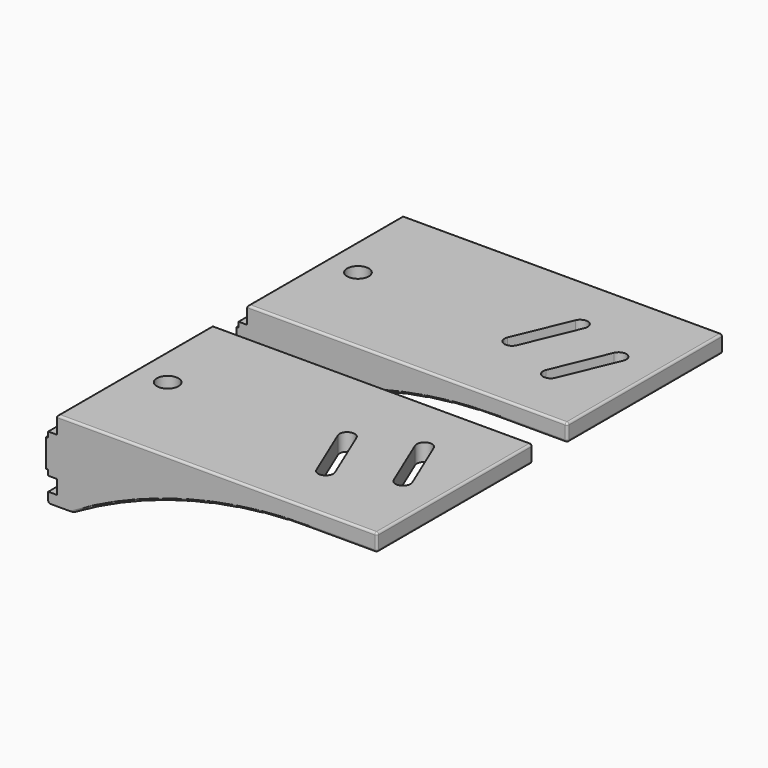
from build123d import *

# Parameters (mm, degrees)
F1_DEPTH      = 22.5
F1_DEPTH_BACK = 22.5
F4_DEPTH      = 22.5
F4_DEPTH_BACK = 22.5
F5_W          = 37
F5_H          = 14.575
F6_DEPTH      = 70.001
F7_R          = 2.5
F8_DEPTH      = 18.576
F9_R          = 6
F10_DEPTH     = 7.5
F11_R         = 2.75
F12_DEPTH     = 76.501
F13_R         = 2.5
F14_DEPTH     = 7.075
F15_R         = 6
F16_DEPTH     = 35
F17_R         = 0.5


with BuildPart() as f1:
    # F0 (on Front) → F1 (new body, two sides)
    with BuildSketch(Plane.XZ) as f1_sk:
        Polygon((-0.5, 3.25), (-0.5, 0), (-0.5, -3.25), (0, -3.25), (0, -4.5), (2, -4.5), (2, -7.75), (0, -7.75), (0, -10.075), (6, -10.075), (6, 0), (6, 8.5), (2, 8.5), (2, 4.5), (0, 4.5), (0, 3.25), align=None)
    extrude(amount=F1_DEPTH)
    extrude(f1_sk.sketch, amount=-F1_DEPTH_BACK)

    # F3 (on Front) → F4 (join, two sides)
    with BuildSketch(Plane.XZ) as f4_sk:
        with BuildLine():
            Line((76, 8.5), (6, 8.5))
            Line((6, 8.5), (6, -10.075))
            ThreePointArc((6, -10.075), (32.550788126, 0.7944315999), (61, 4.5))
            Line((61, 4.5), (76, 4.5))
            Line((76, 4.5), (76, 8.5))
        make_face()
    extrude(amount=F4_DEPTH)
    extrude(f4_sk.sketch, amount=-F4_DEPTH_BACK)

    # F5 (on offset) → F6 (cut, through all)
    with BuildSketch(Plane.YZ.offset(6)):
        with Locations((0, -2.7875)):
            Rectangle(F5_W, F5_H)
    extrude(amount=F6_DEPTH, mode=Mode.SUBTRACT)

    # F7 (on face) → F8 (cut, through all)
    with BuildSketch(Plane.XY.offset(8.5)):
        with Locations((9.6, 0)):
            Circle(F7_R)
        with BuildLine():
            ThreePointArc((63.1673612931, 9.9249359546), (60.8785878281, 10.8664857545), (59.9370380282, 8.5777122894))
            Line((59.9370380282, 8.5777122894), (65.3259326889, -4.3435807703))
            ThreePointArc((65.3259326889, -4.3435807703), (67.614706154, -5.2851305701), (68.5562559539, -2.9963571051))
            Line((68.5562559539, -2.9963571051), (63.1673612931, 9.9249359546))
        make_face()
        with BuildLine():
            ThreePointArc((49.7845934813, 4.3435807703), (47.4958200162, 5.2851305701), (46.5542702163, 2.9963571051))
            Line((46.5542702163, 2.9963571051), (51.9431648771, -9.9249359546))
            ThreePointArc((51.9431648771, -9.9249359546), (54.2319383421, -10.8664857545), (55.173488142, -8.5777122894))
            Line((55.173488142, -8.5777122894), (49.7845934813, 4.3435807703))
        make_face()
    extrude(amount=-F8_DEPTH, mode=Mode.SUBTRACT)

    # F9 (on face) → F10 (cut)
    with BuildSketch(Plane(origin=(0, 0, -10.075), x_dir=(1, 0, 0), z_dir=(0, 0, -1))):
        with Locations((9.6, 0)):
            Circle(F9_R)
    extrude(amount=-F10_DEPTH, mode=Mode.SUBTRACT)

    # F11 (on face) → F12 (cut, through all)
    with BuildSketch(Plane(origin=(-0.5, 0, 0), x_dir=(0, -1, 0), z_dir=(-1, 0, 0))):
        with Locations((-12.5, 0)):
            Circle(F11_R)
        with Locations((12.5, 0)):
            Circle(F11_R)
    extrude(amount=-F12_DEPTH, mode=Mode.SUBTRACT)

    # F13 (on face) → F14 (join, through all)
    with BuildSketch(Plane(origin=(0, 0, -2.575), x_dir=(1, 0, 0), z_dir=(0, 0, -1))):
        with BuildLine():
            ThreePointArc((15.6, 0), (13.8426406871, 4.2426406871), (9.6, 6))
            Line((9.6, 6), (0, 6))
            Line((0, 6), (0, 0))
            Line((0, 0), (0, -6))
            Line((0, -6), (9.6, -6))
            ThreePointArc((9.6, -6), (13.8426406871, -4.2426406871), (15.6, 0))
        make_face()
        with Locations((9.6, 0)):
            Circle(F13_R, mode=Mode.SUBTRACT)
    extrude(amount=-F14_DEPTH)

    # F15 (on face) → F16 (cut)
    with BuildSketch(Plane.YZ.offset(6)):
        with Locations((-12.5, 0)):
            Circle(F15_R)
        with Locations((12.5, 0)):
            Circle(F15_R)
    extrude(amount=F16_DEPTH, mode=Mode.SUBTRACT)

    # F17
    f17_edges = [f1.edges().sort_by_distance(p)[0] for p in [
        (2, 0, 8.5),
        (39, -22.5, 8.5),
        (39, 22.5, 8.5),
        (76, 0, 8.5),
        (32.550788, -22.5, 0.794432),
        (32.550788, 22.5, 0.794432),
        (0, 0, -10.075),
        (76, 22.5, 6.5),
        (76, -22.5, 6.5),
        (76, 0, 4.5),
        (23.5, -16.468627, 4.5),
        (23.5, -8.531373, 4.5),
        (23.5, 8.531373, 4.5),
        (23.5, 16.468627, 4.5),
    ]]
    fillet(f17_edges, radius=F17_R)


with BuildPart() as f19_1:
    # F19: instance of F1
    add(f1.part.mirror(Plane(origin=(24.5429101248, 27.5, 2.5208918973), x_dir=(-1, 0, 0), z_dir=(0, 1, 0))))


solid = Compound([f1.part, f19_1.part])
